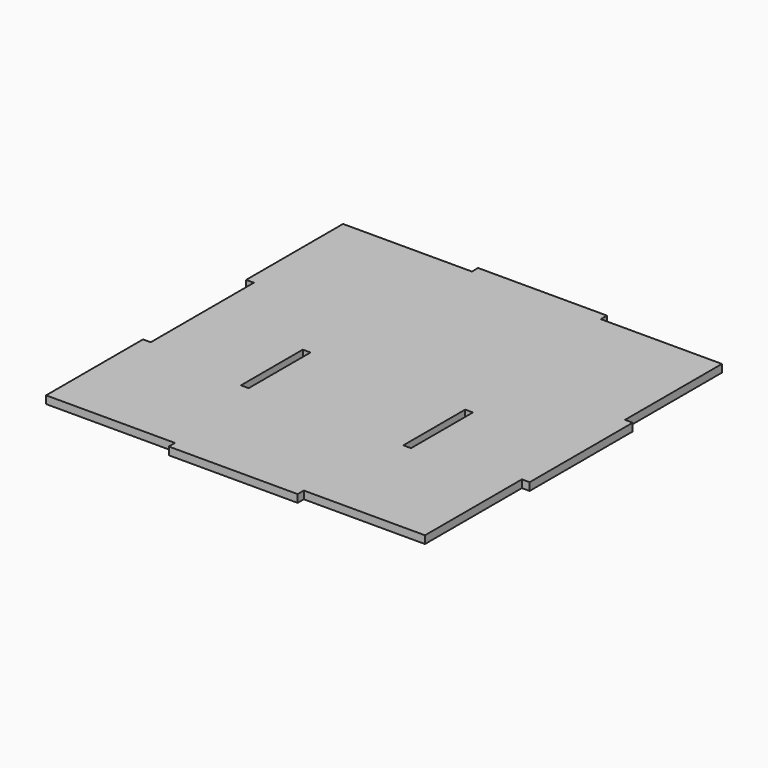
from build123d import *

# Parameters (mm, degrees)
F0_W     = 3
F0_H     = 30
F1_DEPTH = 3


with BuildPart() as f1:
    # F0 (on Top) → F1 (new body)
    with BuildSketch(Plane.XY):
        Polygon((25, 72), (25, 75), (-25, 75), (-25, 72), (-75, 72), (-75, 25), (-72, 25), (-72, -25), (-75, -25), (-75, -72), (-25, -72), (-25, -75), (25, -75), (25, -72), (72, -72), (72, -25), (75, -25), (75, 25), (72, 25), (72, 72), align=None)
        with Locations((-31.5, -15)):
            Rectangle(F0_W, F0_H, mode=Mode.SUBTRACT)
        with Locations((31.5, -15)):
            Rectangle(F0_W, F0_H, mode=Mode.SUBTRACT)
        Polygon((-25, 52.5), (-25, 40), (-25, 27.5), (-45, 27.5), (-45, 52.5), align=None, mode=Mode.SUBTRACT)
        Polygon((25, 27.5), (25, 40), (25, 52.5), (45, 52.5), (45, 27.5), align=None, mode=Mode.SUBTRACT)
        Polygon((-25, 27.5), (-25, 40), (-25, 52.5), (-45, 52.5), (-45, 27.5), align=None)
        Polygon((25, 52.5), (25, 40), (25, 27.5), (45, 27.5), (45, 52.5), align=None)
    extrude(amount=-F1_DEPTH)


solid = f1.part
